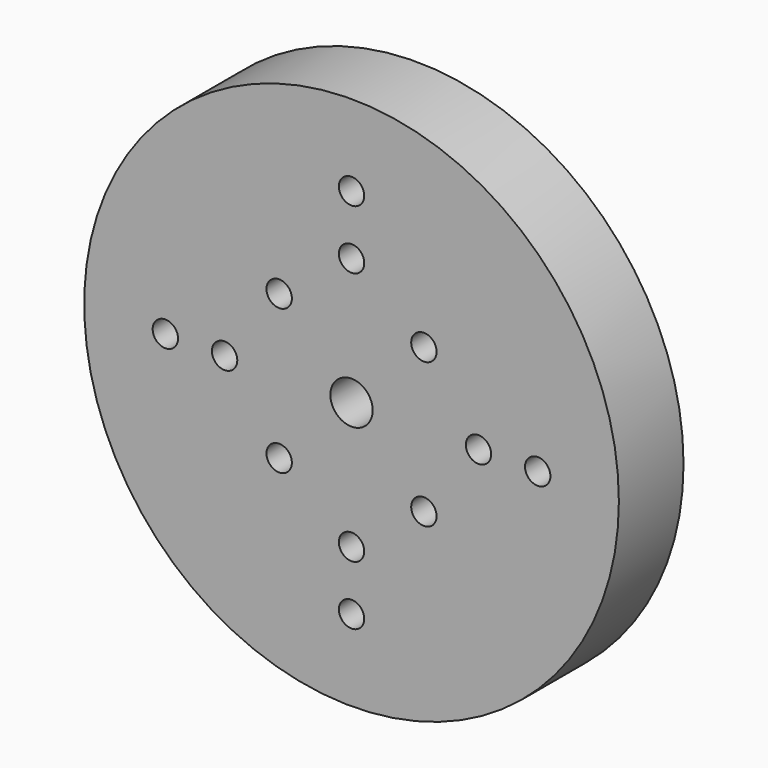
from build123d import *

# Parameters (mm, degrees)
F0_R     = 31.59
F0_R_2   = 1.5
F0_R_3   = 2.5
F1_DEPTH = 9.55


with BuildPart() as f1:
    # F0 (on Front) → F1 (new body)
    with BuildSketch(Plane.XZ):
        Circle(F0_R)
        with Locations((-8.55, -8.55)):
            Circle(F0_R_2, mode=Mode.SUBTRACT)
        with Locations((0, -22)):
            Circle(F0_R_2, mode=Mode.SUBTRACT)
        with Locations((0, -15)):
            Circle(F0_R_2, mode=Mode.SUBTRACT)
        with Locations((8.55, -8.55)):
            Circle(F0_R_2, mode=Mode.SUBTRACT)
        with Locations((-22, 0)):
            Circle(F0_R_2, mode=Mode.SUBTRACT)
        with Locations((-15, 0)):
            Circle(F0_R_2, mode=Mode.SUBTRACT)
        with Locations((-8.55, 8.55)):
            Circle(F0_R_2, mode=Mode.SUBTRACT)
        Circle(F0_R_3, mode=Mode.SUBTRACT)
        with Locations((15, 0)):
            Circle(F0_R_2, mode=Mode.SUBTRACT)
        with Locations((0, 15)):
            Circle(F0_R_2, mode=Mode.SUBTRACT)
        with Locations((8.55, 8.55)):
            Circle(F0_R_2, mode=Mode.SUBTRACT)
        with Locations((22, 0)):
            Circle(F0_R_2, mode=Mode.SUBTRACT)
        with Locations((0, 22)):
            Circle(F0_R_2, mode=Mode.SUBTRACT)
    extrude(amount=F1_DEPTH)


solid = f1.part
